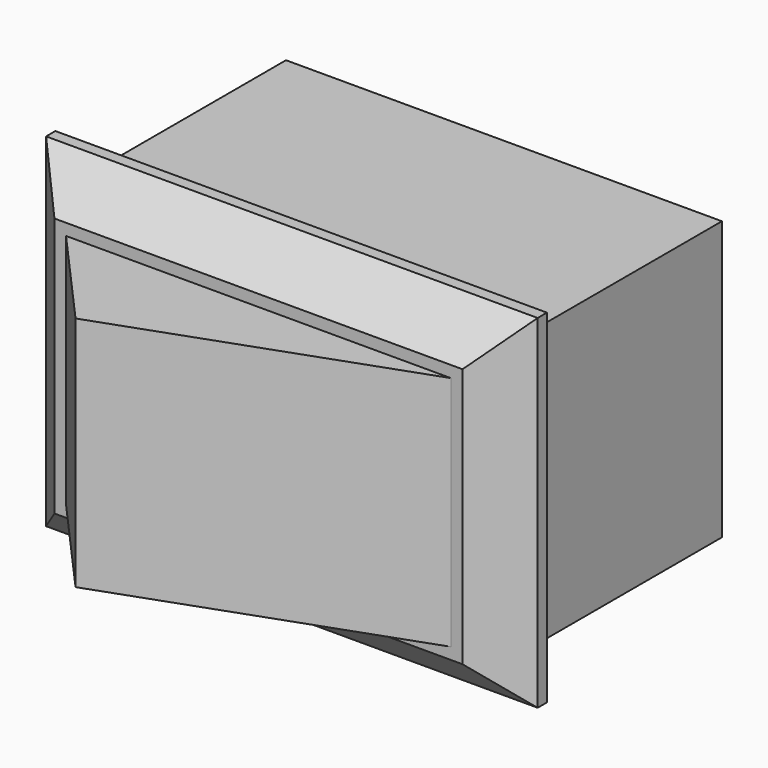
from build123d import *

# Parameters (mm, degrees)
F0_W     = 18.8
F0_H     = 12
F1_DEPTH = 11
F2_W     = 21.2
F2_H     = 14.8
F3_DEPTH = 2.3
F4_SIZE  = 1.8
F5_W     = 16.6
F5_H     = 10.2
F6_DEPTH = 4.5
F8_DEPTH = 25


with BuildPart() as f1:
    # F0 (on Front) → F1 (new body)
    with BuildSketch(Plane.XZ):
        with Locations((9.4, -6)):
            Rectangle(F0_W, F0_H)
    extrude(amount=F1_DEPTH)

    # F2 (on face) → F3 (join)
    with BuildSketch(Plane.XZ.offset(11)):
        with Locations((9.453604, -5.990063)):
            Rectangle(F2_W, F2_H)
    extrude(amount=F3_DEPTH)

    # F4
    f4_edges = [f1.edges().sort_by_distance(p)[0] for p in [
        (-1.146396, -13.3, -5.990063),
        (9.453604, -13.3, -13.390063),
        (20.053604, -13.3, -5.990063),
        (9.453604, -13.3, 1.409937),
    ]]
    chamfer(f4_edges, length=F4_SIZE)

    # F5 (on face) → F6 (join)
    with BuildSketch(Plane.XZ.offset(13.3)):
        with Locations((9.453604, -5.990063)):
            Rectangle(F5_W, F5_H)
    extrude(amount=F6_DEPTH)

    # F7 (on face) → F8 (cut)
    with BuildSketch(Plane(origin=(0, 0, -11.090063), x_dir=(1, 0, 0), z_dir=(0, 0, -1))):
        Polygon((1.153604, 17.8), (1.153604, 13.3), (5.163922, 17.8), align=None)
        Polygon((17.753604, 17.8), (5.163922, 17.8), (17.753604, 13.3), align=None)
    extrude(amount=-F8_DEPTH, mode=Mode.SUBTRACT)


solid = f1.part
